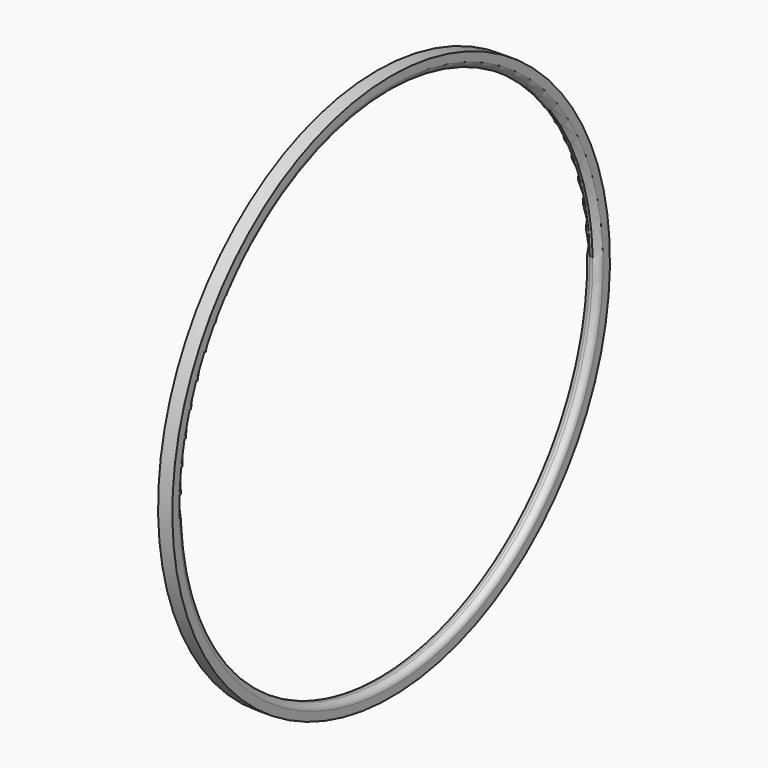
from build123d import *

# Parameters (mm, degrees)
F0_W = 4.7625
F0_H = 4.7752
F2_R = 1.905


with BuildPart() as f1:
    # F0 (on Front) → F1 (revolve)
    with BuildSketch(Plane.XZ):
        with Locations((0, 88.9)):
            Rectangle(F0_W, F0_H)
    revolve(axis=Axis((0.162907, 0, 0), (1, 0, 0)))

    # F2
    f2_edges = [f1.edges().sort_by_distance(p)[0] for p in [
        (2.38125, 0, -86.5124),
        (-2.38125, 0, -86.5124),
    ]]
    fillet(f2_edges, radius=F2_R)


solid = f1.part
